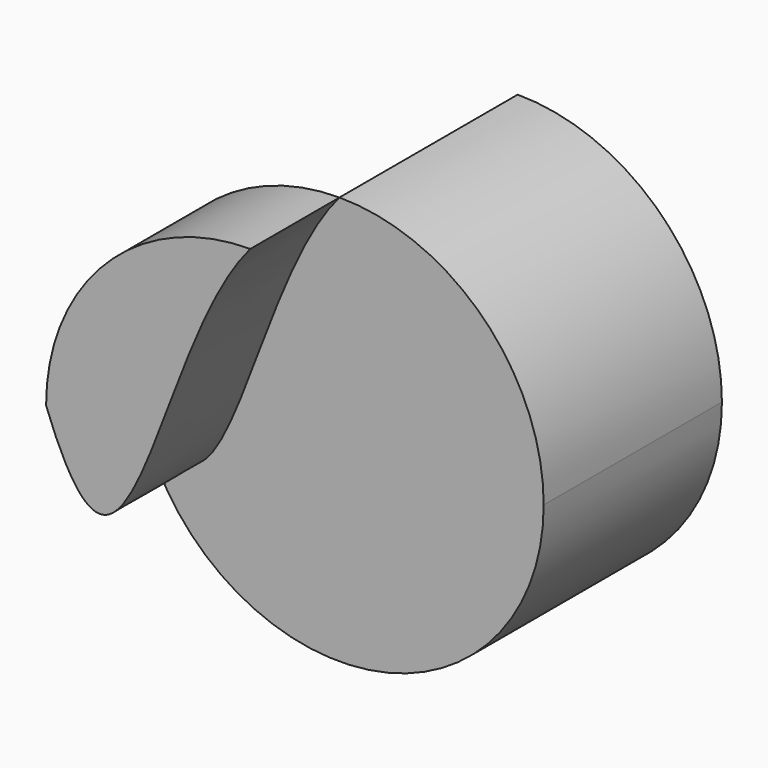
from build123d import *

# Parameters (mm, degrees)
F1_DEPTH = 25.4
F2_DEPTH = 50.8


with BuildPart() as f1:
    # F0 (on Front) → F1 (new body)
    with BuildSketch(Plane.XZ):
        with BuildLine():
            ThreePointArc((0, 46.5694761132), (-32.929592356, 32.929592356), (-46.5694761132, 0))
            add(Edge.make_bspline(
                [(0, 46.5694761132), (-21.8080943928, 21.0978306064), (-27.5236275047, -50.8888363838), (-46.5694761132, 0)],
                knots=[0.5674392278, 0.5674392278, 0.5674392278, 0.5674392278, 1, 1, 1, 1], degree=3))
        make_face()
    extrude(amount=F1_DEPTH)

    # F0 (on Front) → F2 (join)
    with BuildSketch(Plane.XZ):
        with BuildLine():
            add(Edge.make_bspline(
                [(0, 46.5694761132), (-21.8080943928, 21.0978306064), (-27.5236275047, -50.8888363838), (-46.5694761132, 0)],
                knots=[0.5674392278, 0.5674392278, 0.5674392278, 0.5674392278, 1, 1, 1, 1], degree=3))
            ThreePointArc((-46.5694761132, 0), (0, -46.5694761132), (46.5694761132, 0))
            ThreePointArc((46.5694761132, 0), (32.929592356, 32.929592356), (0, 46.5694761132))
        make_face()
    extrude(amount=-F2_DEPTH)


solid = f1.part
